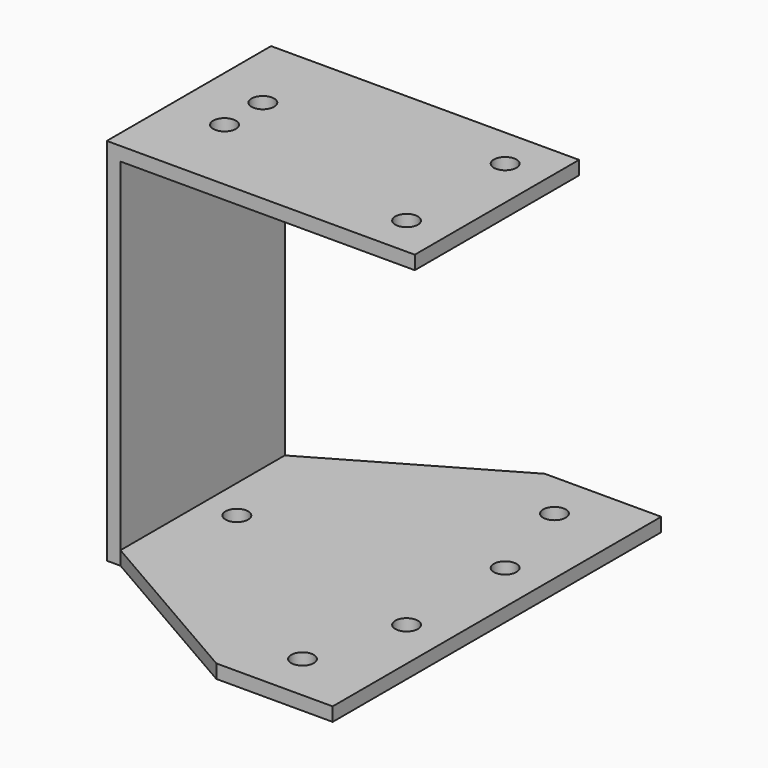
from build123d import *

# Parameters (mm, degrees)
F1_DEPTH  = 15
F3_D      = 3.3
F5_D      = 3.3
F5_DEPTH  = 13.5
F5_TIP    = 0.9914200214
F7_D      = 3.3
F7_DEPTH  = 13.5
F7_TIP    = 0.9914200214
F9_DEPTH  = 2
F12_D     = 3.3
F12_DEPTH = 13.5
F12_TIP   = 0.9914200214


with BuildPart() as f1:
    # F0 (on Front) → F1 (new body, symmetric)
    with BuildSketch(Plane.XZ):
        Polygon((-45, 0), (0, 0), (0, 2), (-43, 2), (-43, 52), (0, 52), (0, 54), (-45, 54), align=None)
    extrude(amount=F1_DEPTH, both=True)

    # F3 (through all)
    with Locations(Plane(origin=(0, 0, 0), x_dir=(1, 0, 0), z_dir=(0, 0, -1))):
        with Locations((-6, 9), (-6, -9)):
            Hole(F3_D / 2)

    # F5
    with Locations(Plane.XY.offset(54)):
        with Locations((-37, 3.5), (-37, -3.5)):
            Hole(F5_D / 2, depth=F5_DEPTH)
            with Locations((0, 0, -(F5_DEPTH + F5_TIP / 2))):  # 118° drill point
                Cone(0, F5_D / 2, F5_TIP, mode=Mode.SUBTRACT)

    # F7 (one way)
    with BuildSketch(Plane.XY.offset(2)):
        with Locations((-37.9999987781, 0)):
            Circle(F7_D / 2)
    extrude(amount=-F7_DEPTH, mode=Mode.SUBTRACT)
    with Locations(Plane.XY.offset(2)):
        with Locations((-37.9999987781, 0)):
            with Locations((0, 0, -(F7_DEPTH + F7_TIP / 2))):  # 118° drill point
                Cone(0, F7_D / 2, F7_TIP, mode=Mode.SUBTRACT)


with BuildPart() as f9:
    # F8 (on face) → F9 (new body)
    with BuildSketch(Plane.XY.offset(2)):
        Polygon((0, -30), (0, -15), (-43, -15), (-17, -30), align=None)
    extrude(amount=-F9_DEPTH)


with BuildPart() as f9b:
    # F8 (on face) → F9, piece 2 (new body)
    with BuildSketch(Plane.XY.offset(2)):
        Polygon((-17, 30), (-43, 15), (0, 15), (0, 30), align=None)
    extrude(amount=-F9_DEPTH)


with BuildPart() as f1_1:
    add(f1.part)

    # F10: union F9, F9b
    add(f9.part)
    add(f9b.part)

    # F12
    with Locations(Plane.XY.offset(2)):
        with Locations((-9.9999987781, 23), (-9.9999987781, -23)):
            Hole(F12_D / 2, depth=F12_DEPTH)
            with Locations((0, 0, -(F12_DEPTH + F12_TIP / 2))):  # 118° drill point
                Cone(0, F12_D / 2, F12_TIP, mode=Mode.SUBTRACT)


solid = f1_1.part
